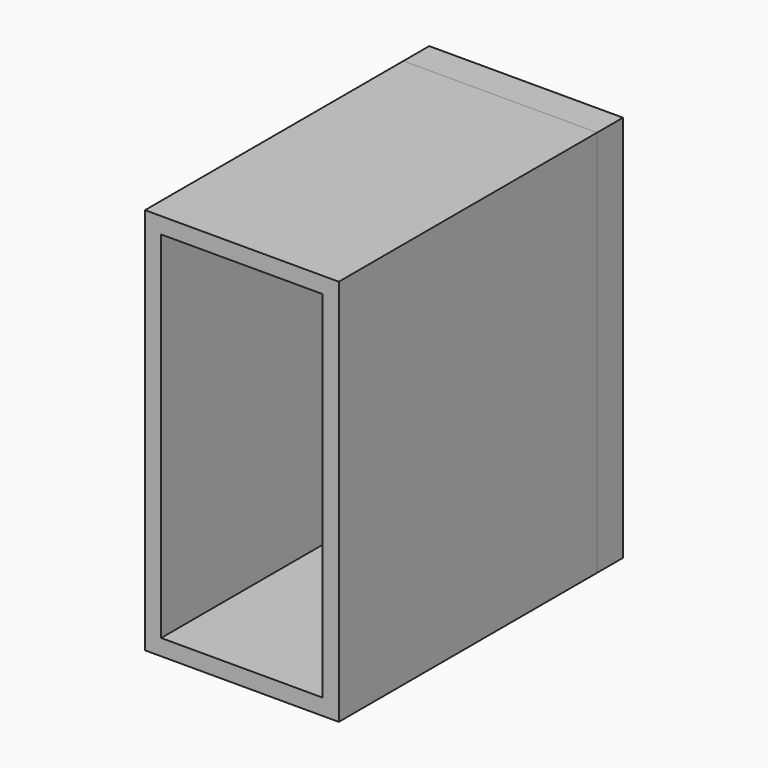
from build123d import *

# Parameters (mm, degrees)
F0_W     = 76.2
F0_H     = 152.4
F0_W_2   = 63.5
F0_H_2   = 139.7
F1_DEPTH = 127
F2_DEPTH = 12.7


with BuildPart() as f1:
    # F0 (on Front) → F1 (new body)
    with BuildSketch(Plane.XZ):
        Rectangle(F0_W, F0_H)
        Rectangle(F0_W_2, F0_H_2, mode=Mode.SUBTRACT)
    extrude(amount=F1_DEPTH)


with BuildPart() as f2:
    # F0 (on Front) → F2 (new body)
    with BuildSketch(Plane.XZ):
        Rectangle(F0_W, F0_H)
        Rectangle(F0_W_2, F0_H_2, mode=Mode.SUBTRACT)
        Rectangle(F0_W_2, F0_H_2)
    extrude(amount=-F2_DEPTH)


solid = Compound([f1.part, f2.part])
